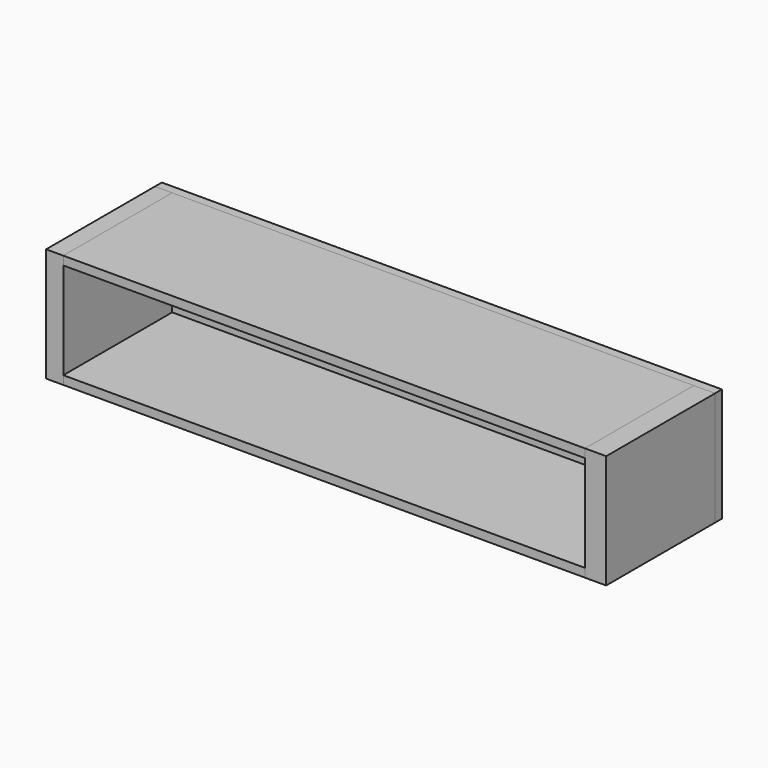
from build123d import *

# Parameters (mm, degrees)
F1_W     = 38
F1_H     = 251
F1_W_2   = 46.748253
F2_DEPTH = 300
F3_W     = 1150.251747
F3_H     = 19
F4_DEPTH = 300
F5_W     = 1235
F5_H     = 251
F6_DEPTH = 19


with BuildPart() as f2:
    # F1 (on Front) → F2 (new body)
    with BuildSketch(Plane.XZ):
        with Locations((-596.312937, 0)):
            Rectangle(F1_W, F1_H)
        with Locations((596.312936, 0)):
            Rectangle(F1_W_2, F1_H)
    extrude(amount=F2_DEPTH)


with BuildPart() as f4:
    # F3 (on Front) → F4 (new body, through all)
    with BuildSketch(Plane.XZ):
        with Locations((-2.187063, 116)):
            Rectangle(F3_W, F3_H)
        with Locations((-2.187063, -116)):
            Rectangle(F3_W, F3_H)
    extrude(amount=F4_DEPTH)


with BuildPart() as f6:
    # F5 (on face) → F6 (new body)
    with BuildSketch(Plane.XZ):
        with Locations((2.187063, 0)):
            Rectangle(F5_W, F5_H)
    extrude(amount=-F6_DEPTH)


solid = Compound([f2.part, f4.part, f6.part])
